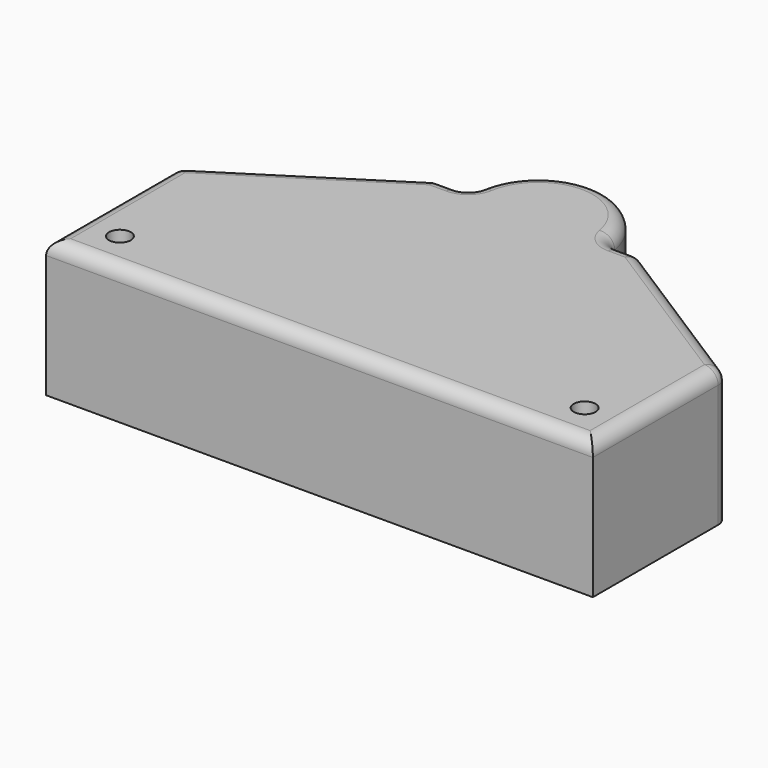
from build123d import *

# Parameters (mm, degrees)
F1_DEPTH = 50
F2_R     = 5
F3_R     = 4
F4_DEPTH = 50.001


with BuildPart() as f1:
    # F0 (on Top) → F1 (new body)
    with BuildSketch(Plane.XY):
        with BuildLine():
            Line((0, 57.2570811482), (0, 0))
            Line((0, 0), (200, 0))
            Line((200, 0), (200, 57.2570811482))
            ThreePointArc((200, 57.2570811482), (199.3836985076, 59.6619070036), (197.6867250421, 61.4738937535))
            Line((197.6867250421, 61.4738937535), (138.4492468932, 99.2168126053))
            ThreePointArc((138.4492468932, 99.2168126053), (137.1617961225, 99.8002116113), (135.7625218511, 100))
            Line((135.7625218511, 100), (129.5803989155, 100))
            ThreePointArc((129.5803989155, 100), (126.3529127937, 101.1811869209), (124.6503324296, 104.1666666667))
            ThreePointArc((124.6503324296, 104.1666666667), (100, 125), (75.3496675704, 104.1666666667))
            ThreePointArc((75.3496675704, 104.1666666667), (73.6470872063, 101.1811869209), (70.4196010845, 100))
            Line((70.4196010845, 100), (64.2374781489, 100))
            ThreePointArc((64.2374781489, 100), (62.8382038775, 99.8002116113), (61.5507531068, 99.2168126053))
            Line((61.5507531068, 99.2168126053), (2.3132749579, 61.4738937535))
            ThreePointArc((2.3132749579, 61.4738937535), (0.6163014924, 59.6619070036), (0, 57.2570811482))
        make_face()
    extrude(amount=F1_DEPTH)

    # F2
    f2_edges = [f1.edges().sort_by_distance(p)[0] for p in [
        (0, 28.628541, 50),
        (100, 0, 50),
        (200, 28.628541, 50),
        (199.383699, 59.661907, 50),
        (168.067986, 80.345353, 50),
        (137.161796, 99.800212, 50),
        (132.67146, 100, 50),
        (126.352913, 101.181187, 50),
        (100, 125, 50),
        (73.647087, 101.181187, 50),
        (67.32854, 100, 50),
        (62.838204, 99.800212, 50),
        (31.932014, 80.345353, 50),
        (0.616301, 59.661907, 50),
    ]]
    fillet(f2_edges, radius=F2_R)

    # F3 (on face) → F4 (cut, through all)
    with BuildSketch(Plane.XY.offset(50)):
        with Locations((185, 15)):
            Circle(F3_R)
        with Locations((15, 15)):
            Circle(F3_R)
    extrude(amount=-F4_DEPTH, mode=Mode.SUBTRACT)


solid = f1.part
